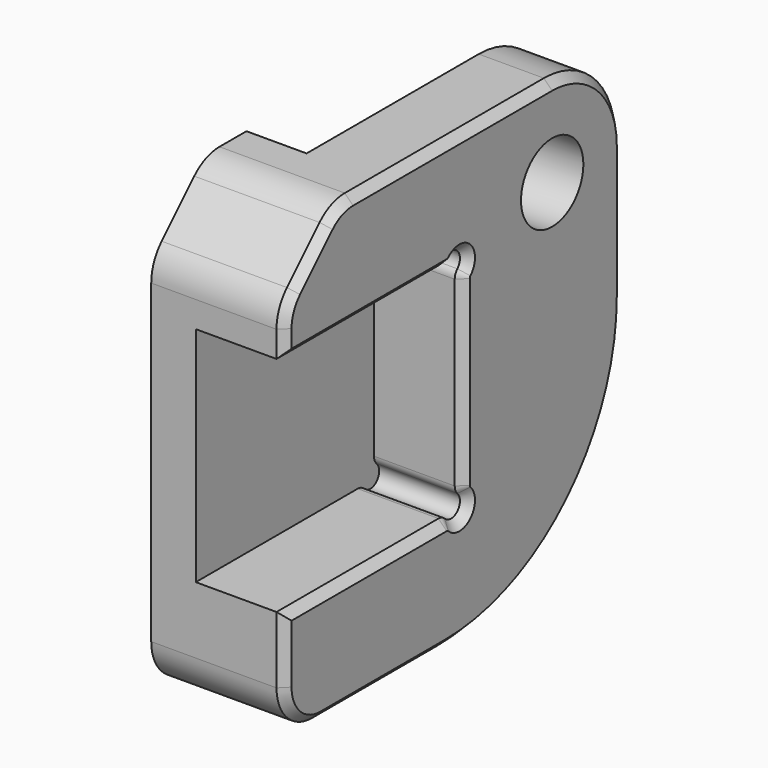
from build123d import *

# Parameters (mm, degrees)
SKETCH303_R     = 3.5
PAD074_DEPTH    = 12
POCKET191_DEPTH = 8.001
POCKET192_DEPTH = 5.401
SKETCH306_R     = 2.75
POCKET193_DEPTH = 3.701
CHAMFER019_SIZE = 0.75


with BuildPart() as part:
    # Sketch303 → Pad074 (new body)
    with BuildSketch(Plane.YZ.offset(18)):
        with BuildLine():
            Line((-50, 12.343146), (-50, -16))
            ThreePointArc((-50, -16), (-48.828427, -18.828427), (-46, -20))
            Line((-46, -20), (-32, -20))
            ThreePointArc((-32, -20), (-17.857864, -14.142136), (-12, 0))
            Line((-12, 0), (-12, 12))
            ThreePointArc((-12, 12), (-14.343146, 17.656854), (-20, 20))
            Line((-20, 20), (-42.343146, 20))
            ThreePointArc((-42.343146, 20), (-43.873879, 19.695518), (-45.171573, 18.828427))
            Line((-45.171573, 18.828427), (-48.828427, 15.171573))
            ThreePointArc((-48.828427, 15.171573), (-49.695518, 13.873879), (-50, 12.343146))
        make_face()
        with Locations((-20, 12)):
            Circle(SKETCH303_R, mode=Mode.SUBTRACT)
    extrude(amount=-PAD074_DEPTH)

    # Sketch304 → Pocket191 (cut, through all)
    with BuildSketch(Plane.YZ.offset(10)):
        with BuildLine():
            ThreePointArc((-55, 11.000001), (-54.707107, 10.292894), (-54, 10))
            Line((-54, 10), (-31.828427, 10))
            ThreePointArc((-31.828427, 10), (-31.445744, 10.07612), (-31.12132, 10.292893))
            ThreePointArc((-29.707107, 8.87868), (-29.707107, 10.292893), (-31.12132, 10.292893))
            ThreePointArc((-29.707107, 8.87868), (-29.92388, 8.554256), (-30, 8.171573))
            Line((-30, -8.171573), (-30, 8.171573))
            ThreePointArc((-30, -8.171573), (-29.92388, -8.554256), (-29.707107, -8.87868))
            ThreePointArc((-31.12132, -10.292893), (-29.707107, -10.292893), (-29.707107, -8.87868))
            ThreePointArc((-31.12132, -10.292893), (-31.445744, -10.07612), (-31.828427, -10))
            Line((-54, -10), (-31.828427, -10))
            ThreePointArc((-54, -10), (-54.707107, -10.292893), (-55, -11))
            Line((-55, 11.000001), (-55, -11))
        make_face()
    extrude(amount=POCKET191_DEPTH, mode=Mode.SUBTRACT)

    # Sketch305 → Pocket192 (cut, through all)
    with BuildSketch(Plane.YZ.offset(11.4)):
        with BuildLine():
            Line((-25.656854, 6.343146), (-39.313708, 20))
            Line((-12, 20), (-39.313708, 20))
            Line((-12, 8.686292), (-12, 20))
            Line((-14.343146, 6.343146), (-12, 8.686292))
            ThreePointArc((-25.656854, 6.343146), (-20, 4), (-14.343146, 6.343146))
        make_face()
    extrude(amount=-POCKET192_DEPTH, mode=Mode.SUBTRACT)

    # Sketch306 → Pocket193 (cut, through all)
    with BuildSketch(Plane.YZ.offset(9.7)):
        with Locations((-40, 0)):
            Circle(SKETCH306_R)
    extrude(amount=-POCKET193_DEPTH, mode=Mode.SUBTRACT)

    # Chamfer019
    chamfer019_edges = [part.edges().sort_by_distance(p)[0] for p in [
        (18, -40.914214, 10),
        (18, -31.171573, 20),
    ]]
    chamfer(chamfer019_edges, length=CHAMFER019_SIZE)


solid = part.part
